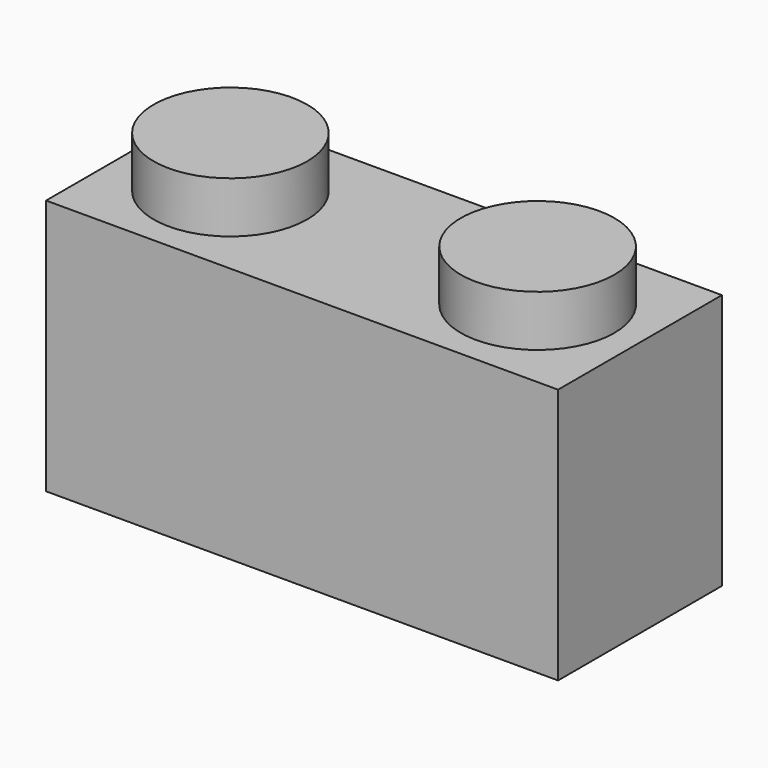
from build123d import *

# Parameters (mm, degrees)
F0_W     = 100
F0_H     = 50
F1_DEPTH = 40
F2_R     = 15
F3_DEPTH = 10
F4_W     = 90
F4_H     = 30
F5_DEPTH = 40


with BuildPart() as f1:
    # F0 (on Front) → F1 (new body)
    with BuildSketch(Plane.XZ):
        Rectangle(F0_W, F0_H)
    extrude(amount=F1_DEPTH)

    # F2 (on face) → F3 (join)
    with BuildSketch(Plane.XY.offset(25)):
        with Locations((-30, -20)):
            Circle(F2_R)
        with Locations((30, -20)):
            Circle(F2_R)
    extrude(amount=F3_DEPTH)

    # F4 (on face) → F5 (cut)
    with BuildSketch(Plane(origin=(0, 0, -25), x_dir=(1, 0, 0), z_dir=(0, 0, -1))):
        with Locations((0, 20)):
            Rectangle(F4_W, F4_H)
    extrude(amount=-F5_DEPTH, mode=Mode.SUBTRACT)


solid = f1.part
